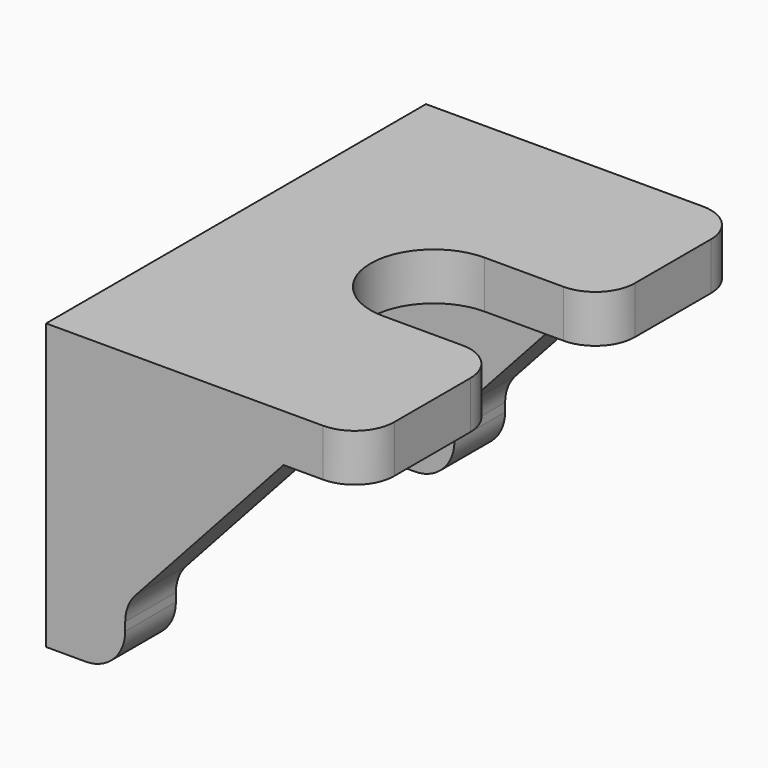
from build123d import *

# Parameters (mm, degrees)
PAD_DEPTH           = 1.2
PAD001_DEPTH        = 1.6
LINEARPATTERN_COUNT = 2
LINEARPATTERN_PITCH = 10.4
FILLET_R            = 1
FILLET001_R         = 1
FILLET002_R         = 1


with BuildPart() as part:
    # Sketch → Pad (new body)
    with BuildSketch(Plane.XY):
        with BuildLine():
            Line((-4, 6), (4, 6))
            Line((4, 6), (4, 1.6))
            Line((1, 1.6), (4, 1.6))
            ThreePointArc((1, 1.6), (-0.6, 0), (1, -1.6))
            Line((4, -1.6), (1, -1.6))
            Line((4, -1.6), (4, -6))
            Line((4, -6), (-4, -6))
            Line((-4, -6), (-4, 6))
        make_face()
    extrude(amount=PAD_DEPTH)

    # Sketch001 (on DatumPlane) → Pad001 (join)
    with BuildSketch(Plane.XZ.offset(6)):
        Polygon((-4, 0), (-4, -6), (-2, -6), (-2, -4.4), (2, 0), align=None)
    pad001 = extrude(amount=-PAD001_DEPTH)

    # LinearPattern: Pad001 ×2
    with Locations(*[(0, i * LINEARPATTERN_PITCH, 0) for i in range(1, LINEARPATTERN_COUNT)]):
        add(pad001)

    # Fillet
    fillet_edges = [part.edges().sort_by_distance(p)[0] for p in [
        (-2, -5.2, -6),
        (-2, 5.2, -6),
    ]]
    fillet(fillet_edges, radius=FILLET_R)

    # Fillet001
    fillet001_edges = [part.edges().sort_by_distance(p)[0] for p in [
        (-2, -5.2, -4.4),
        (-2, 5.2, -4.4),
    ]]
    fillet(fillet001_edges, radius=FILLET001_R)

    # Fillet002
    fillet002_edges = [part.edges().sort_by_distance(p)[0] for p in [
        (4, -6, 0.6),
        (4, -1.6, 0.6),
        (4, 1.6, 0.6),
        (4, 6, 0.6),
    ]]
    fillet(fillet002_edges, radius=FILLET002_R)


solid = part.part
